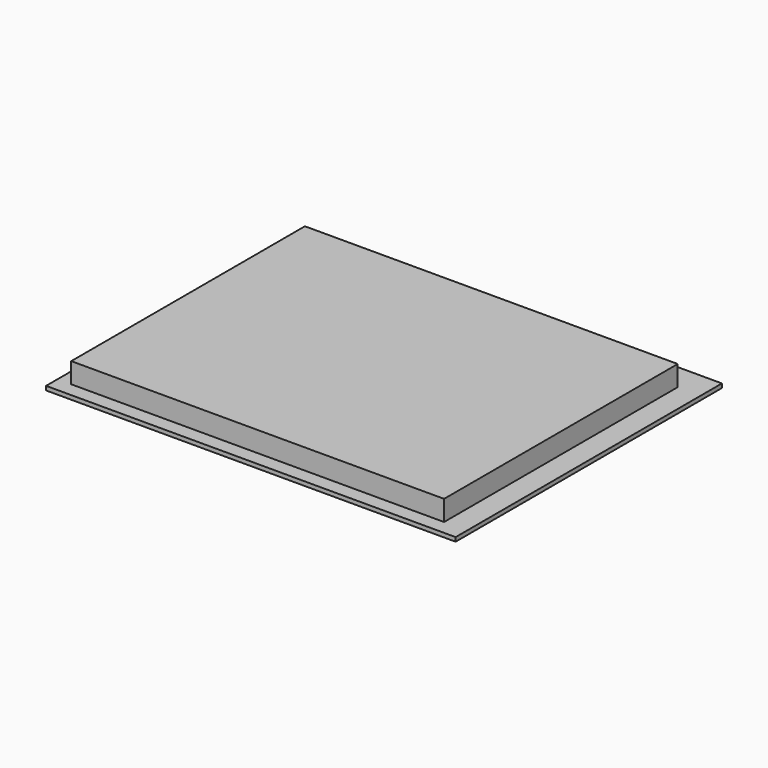
from build123d import *

# Parameters (mm, degrees)
F0_W     = 100.4
F0_H     = 81.6
F1_DEPTH = 1
F2_W     = 91.4
F2_H     = 71.6
F3_DEPTH = 5
F4_R     = 5.91518
F5_DEPTH = 25.4


with BuildPart() as f1:
    # F0 (on Top) → F1 (new body)
    with BuildSketch(Plane.XY):
        with Locations((3.041083, 3.351103)):
            Rectangle(F0_W, F0_H)
    extrude(amount=-F1_DEPTH)

    # F2 (on Top) → F3 (join)
    with BuildSketch(Plane.XY):
        with Locations((1.90348, 1.857489)):
            Rectangle(F2_W, F2_H)
    extrude(amount=F3_DEPTH)

    # F4 (on Top) → F5 (cut)
    with BuildSketch(Plane.XY):
        with Locations((0, 44.399735)):
            Circle(F4_R)
    extrude(amount=-F5_DEPTH, mode=Mode.SUBTRACT)


solid = f1.part
